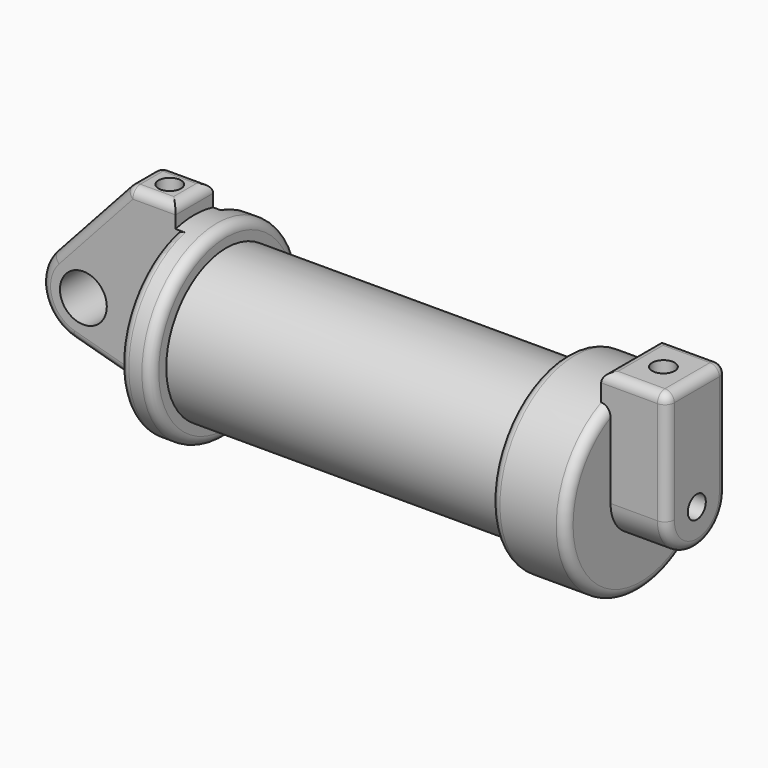
from build123d import *

# Parameters (mm, degrees)
F0_W          = 5.842
F0_H          = 12.7
F0_R          = 3.175
F2_DEPTH      = 3.175
F3_R          = 1.524
F4_DEPTH      = 7.62
F4_DEPTH_BACK = 1.27
F5_DEPTH      = 56.134
F6_R          = 1.524
F7_DEPTH      = 17.78
F8_DEPTH      = 1041.4
F9_R          = 1.27


with BuildPart() as f1:
    # F0 (on Front) → F1 (revolve)
    with BuildSketch(Plane.XZ):
        Polygon((5.842, 12.7), (5.842, 0), (66.294, 0), (66.294, 12.7), (56.134, 12.7), (56.134, 10.16), (10.16, 10.16), (10.16, 12.7), align=None)
    revolve(axis=Axis((33.147, 0, 0), (-1, 0, 0)))

    # F0 (on Front) → F2 (join, symmetric)
    with BuildSketch(Plane.XZ):
        with Locations((2.921, 6.35)):
            Rectangle(F0_W, F0_H)
        with BuildLine():
            Line((5.842, 0), (0, 0))
            Line((0, 0), (-0.9398, 0))
            ThreePointArc((-0.9398, 0), (-3.1957909266, -4.5493385486), (-8.1826630726, -5.5069827884))
            Line((-8.1826630726, -5.5069827884), (5.842, -9.398))
            Line((5.842, -9.398), (5.842, 0))
        make_face()
        with BuildLine():
            ThreePointArc((-8.1826630726, -5.5069827884), (-3.1957909266, -4.5493385486), (-0.9398, 0))
            ThreePointArc((-0.9398, 0), (-4.5919612295, 5.3297205562), (-10.8806298187, 3.8475430269))
            ThreePointArc((-10.8806298187, 3.8475430269), (-12.1459778134, -1.5837270034), (-8.1826630726, -5.5069827884))
        make_face()
        with Locations((-6.6548, 0)):
            Circle(F0_R, mode=Mode.SUBTRACT)
        with BuildLine():
            Line((-0.9398, 0), (0, 0))
            Line((0, 0), (0, 12.7))
            Line((0, 12.7), (5.842, 12.7))
            Line((5.842, 12.7), (5.842, 15.24))
            Line((5.842, 15.24), (-0.508, 15.24))
            Line((-0.508, 15.24), (-10.8806298187, 3.8475430269))
            ThreePointArc((-10.8806298187, 3.8475430269), (-4.5919612295, 5.3297205562), (-0.9398, 0))
        make_face()
    extrude(amount=F2_DEPTH, both=True)

    # F3 (on face) → F4 (join, two sides)
    with BuildSketch(Plane.YZ.offset(66.294)) as f4_sk:
        with BuildLine():
            ThreePointArc((-5.08, 11.6397422652), (0, 12.7), (5.08, 11.6397422652))
            Line((5.08, 11.6397422652), (5.08, 15.24))
            Line((5.08, 15.24), (-5.08, 15.24))
            Line((-5.08, 15.24), (-5.08, 11.6397422652))
        make_face()
        with BuildLine():
            ThreePointArc((-5.08, 0), (0, 5.08), (5.08, 0))
            Line((5.08, 0), (5.08, 11.6397422652))
            ThreePointArc((5.08, 11.6397422652), (0, 12.7), (-5.08, 11.6397422652))
            Line((-5.08, 11.6397422652), (-5.08, 0))
        make_face()
        with BuildLine():
            ThreePointArc((-5.08, 0), (0, -5.08), (5.08, 0))
            ThreePointArc((5.08, 0), (0, 5.08), (-5.08, 0))
        make_face()
        Circle(F3_R, mode=Mode.SUBTRACT)
    extrude(amount=F4_DEPTH)
    extrude(f4_sk.sketch, amount=-F4_DEPTH_BACK)

    # F5 (cut, through all): a face of the model
    f5_faces = [f1.faces().sort_by_distance(p)[0] for p in [
        (66.294, 0, 0),
    ]]
    extrude(f5_faces, amount=-F5_DEPTH, mode=Mode.SUBTRACT)

    # F6 (on face) → F7 (cut)
    with BuildSketch(Plane.XY.offset(15.24)):
        with Locations((2.5105909444, 0)):
            Circle(F6_R)
    extrude(amount=-F7_DEPTH, mode=Mode.SUBTRACT)

    # F6 (on face) → F8 (cut)
    with BuildSketch(Plane.XY.offset(15.24)):
        with Locations((69.3942382932, 0)):
            Circle(F6_R)
        with Locations((2.5105909444, 0)):
            Circle(F6_R)
    extrude(amount=-F8_DEPTH, mode=Mode.SUBTRACT)

    # F9
    f9_edges = [f1.edges().sort_by_distance(p)[0] for p in [
        (10.16, 0, -12.7),
        (56.134, 0, -12.7),
        (5.842, 0, 15.24),
        (2.667, 3.175, 15.24),
        (-0.508, 0, 15.24),
        (2.667, -3.175, 15.24),
        (5.842, 0, -12.7),
        (66.294, 0, -12.7),
        (-5.694315, -3.175, 9.543772),
        (73.914, -5.08, 7.62),
        (73.914, 0, -5.08),
        (73.914, 5.08, 7.62),
        (73.914, 0, 15.24),
        (69.469, -5.08, 15.24),
        (69.469, 5.08, 15.24),
        (65.024, 0, 15.24),
        (-5.694315, 3.175, 9.543772),
        (-12.145978, 3.175, -1.583727),
        (-12.145978, -3.175, -1.583727),
    ]]
    fillet(f9_edges, radius=F9_R)


solid = f1.part
